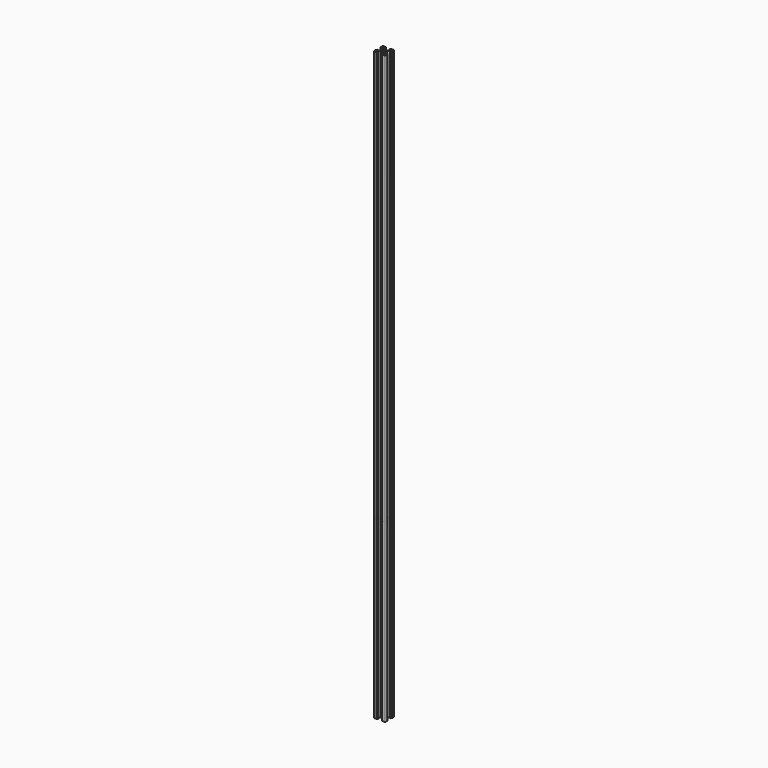
from build123d import *

# Parameters (mm, degrees)
F0_R     = 2.1
F1_DEPTH = 1000
F2_DEPTH = 300


with BuildPart() as f1:
    # F0 (on Top) → F1 (new body)
    with BuildSketch(Plane.XY):
        with BuildLine():
            Line((-3.4, 0), (-3.5, -0.1))
            Line((-3.5, -0.1), (-3.5, -2.43934))
            Line((-3.5, -2.43934), (-6.56066, -5.5))
            Line((-6.56066, -5.5), (-8.2, -5.5))
            Line((-8.2, -5.5), (-8.2, -2.89))
            Line((-8.2, -2.89), (-8.31, -2.89))
            Line((-8.31, -2.89), (-9.768614, -4.348614))
            ThreePointArc((-9.768614, -4.348614), (-9.939865, -4.604909), (-10, -4.907229))
            Line((-10, -4.907229), (-10, -8.5))
            ThreePointArc((-10, -8.5), (-9.56066, -9.56066), (-8.5, -10))
            Line((-8.5, -10), (-4.907229, -10))
            ThreePointArc((-4.907229, -10), (-4.604909, -9.939865), (-4.348614, -9.768614))
            Line((-4.348614, -9.768614), (-2.89, -8.31))
            Line((-2.89, -8.31), (-2.89, -8.2))
            Line((-2.89, -8.2), (-5.5, -8.2))
            Line((-5.5, -8.2), (-5.5, -6.56066))
            Line((-5.5, -6.56066), (-2.43934, -3.5))
            Line((-2.43934, -3.5), (-0.1, -3.5))
            Line((-0.1, -3.5), (0, -3.4))
            Line((0, -3.4), (0.1, -3.5))
            Line((0.1, -3.5), (2.43934, -3.5))
            Line((2.43934, -3.5), (5.5, -6.56066))
            Line((5.5, -6.56066), (5.5, -8.2))
            Line((5.5, -8.2), (2.89, -8.2))
            Line((2.89, -8.2), (2.89, -8.31))
            Line((2.89, -8.31), (4.348614, -9.768614))
            ThreePointArc((4.348614, -9.768614), (4.604909, -9.939865), (4.907229, -10))
            Line((4.907229, -10), (8.5, -10))
            ThreePointArc((8.5, -10), (9.56066, -9.56066), (10, -8.5))
            Line((10, -8.5), (10, -4.907229))
            ThreePointArc((10, -4.907229), (9.939865, -4.604909), (9.768614, -4.348614))
            Line((9.768614, -4.348614), (8.31, -2.89))
            Line((8.31, -2.89), (8.2, -2.89))
            Line((8.2, -2.89), (8.2, -5.5))
            Line((8.2, -5.5), (6.56066, -5.5))
            Line((6.56066, -5.5), (3.5, -2.43934))
            Line((3.5, -2.43934), (3.5, -0.1))
            Line((3.5, -0.1), (3.4, 0))
            Line((3.4, 0), (3.5, 0.1))
            Line((3.5, 0.1), (3.5, 2.43934))
            Line((3.5, 2.43934), (6.56066, 5.5))
            Line((6.56066, 5.5), (8.2, 5.5))
            Line((8.2, 5.5), (8.2, 2.89))
            Line((8.2, 2.89), (8.31, 2.89))
            Line((8.31, 2.89), (9.768614, 4.348614))
            ThreePointArc((9.768614, 4.348614), (9.939865, 4.604909), (10, 4.907229))
            Line((10, 4.907229), (10, 8.5))
            ThreePointArc((10, 8.5), (9.56066, 9.56066), (8.5, 10))
            Line((8.5, 10), (4.907229, 10))
            ThreePointArc((4.907229, 10), (4.604909, 9.939865), (4.348614, 9.768614))
            Line((4.348614, 9.768614), (2.89, 8.31))
            Line((2.89, 8.31), (2.89, 8.2))
            Line((2.89, 8.2), (5.5, 8.2))
            Line((5.5, 8.2), (5.5, 6.56066))
            Line((5.5, 6.56066), (2.43934, 3.5))
            Line((2.43934, 3.5), (0.1, 3.5))
            Line((0.1, 3.5), (0, 3.4))
            Line((0, 3.4), (-0.1, 3.5))
            Line((-0.1, 3.5), (-2.43934, 3.5))
            Line((-2.43934, 3.5), (-5.5, 6.56066))
            Line((-5.5, 6.56066), (-5.5, 8.2))
            Line((-5.5, 8.2), (-2.89, 8.2))
            Line((-2.89, 8.2), (-2.89, 8.31))
            Line((-2.89, 8.31), (-4.348614, 9.768614))
            ThreePointArc((-4.348614, 9.768614), (-4.604909, 9.939865), (-4.907229, 10))
            Line((-4.907229, 10), (-8.5, 10))
            ThreePointArc((-8.5, 10), (-9.56066, 9.56066), (-10, 8.5))
            Line((-10, 8.5), (-10, 4.907229))
            ThreePointArc((-10, 4.907229), (-9.939865, 4.604909), (-9.768614, 4.348614))
            Line((-9.768614, 4.348614), (-8.31, 2.89))
            Line((-8.31, 2.89), (-8.2, 2.89))
            Line((-8.2, 2.89), (-8.2, 5.5))
            Line((-8.2, 5.5), (-6.56066, 5.5))
            Line((-6.56066, 5.5), (-3.5, 2.43934))
            Line((-3.5, 2.43934), (-3.5, 0.1))
            Line((-3.5, 0.1), (-3.4, 0))
        make_face()
        Polygon((-7.66, -6.57), (-7.115, -7.115), (-6.57, -7.66), (-6.57, -8.2), (-8.2, -8.2), (-8.2, -6.57), align=None, mode=Mode.SUBTRACT)
        Polygon((6.57, -7.66), (7.115, -7.115), (7.66, -6.57), (8.2, -6.57), (8.2, -8.2), (6.57, -8.2), align=None, mode=Mode.SUBTRACT)
        Polygon((-6.57, 8.2), (-6.57, 7.66), (-7.115, 7.115), (-7.66, 6.57), (-8.2, 6.57), (-8.2, 8.2), align=None, mode=Mode.SUBTRACT)
        Circle(F0_R, mode=Mode.SUBTRACT)
        Polygon((8.2, 6.57), (7.66, 6.57), (7.115, 7.115), (6.57, 7.66), (6.57, 8.2), (8.2, 8.2), align=None, mode=Mode.SUBTRACT)
    extrude(amount=F1_DEPTH)


with BuildPart() as f2:
    # F0 (on Top) → F2 (new body)
    with BuildSketch(Plane.XY):
        with BuildLine():
            Line((-3.4, 0), (-3.5, -0.1))
            Line((-3.5, -0.1), (-3.5, -2.43934))
            Line((-3.5, -2.43934), (-6.56066, -5.5))
            Line((-6.56066, -5.5), (-8.2, -5.5))
            Line((-8.2, -5.5), (-8.2, -2.89))
            Line((-8.2, -2.89), (-8.31, -2.89))
            Line((-8.31, -2.89), (-9.768614, -4.348614))
            ThreePointArc((-9.768614, -4.348614), (-9.939865, -4.604909), (-10, -4.907229))
            Line((-10, -4.907229), (-10, -8.5))
            ThreePointArc((-10, -8.5), (-9.56066, -9.56066), (-8.5, -10))
            Line((-8.5, -10), (-4.907229, -10))
            ThreePointArc((-4.907229, -10), (-4.604909, -9.939865), (-4.348614, -9.768614))
            Line((-4.348614, -9.768614), (-2.89, -8.31))
            Line((-2.89, -8.31), (-2.89, -8.2))
            Line((-2.89, -8.2), (-5.5, -8.2))
            Line((-5.5, -8.2), (-5.5, -6.56066))
            Line((-5.5, -6.56066), (-2.43934, -3.5))
            Line((-2.43934, -3.5), (-0.1, -3.5))
            Line((-0.1, -3.5), (0, -3.4))
            Line((0, -3.4), (0.1, -3.5))
            Line((0.1, -3.5), (2.43934, -3.5))
            Line((2.43934, -3.5), (5.5, -6.56066))
            Line((5.5, -6.56066), (5.5, -8.2))
            Line((5.5, -8.2), (2.89, -8.2))
            Line((2.89, -8.2), (2.89, -8.31))
            Line((2.89, -8.31), (4.348614, -9.768614))
            ThreePointArc((4.348614, -9.768614), (4.604909, -9.939865), (4.907229, -10))
            Line((4.907229, -10), (8.5, -10))
            ThreePointArc((8.5, -10), (9.56066, -9.56066), (10, -8.5))
            Line((10, -8.5), (10, -4.907229))
            ThreePointArc((10, -4.907229), (9.939865, -4.604909), (9.768614, -4.348614))
            Line((9.768614, -4.348614), (8.31, -2.89))
            Line((8.31, -2.89), (8.2, -2.89))
            Line((8.2, -2.89), (8.2, -5.5))
            Line((8.2, -5.5), (6.56066, -5.5))
            Line((6.56066, -5.5), (3.5, -2.43934))
            Line((3.5, -2.43934), (3.5, -0.1))
            Line((3.5, -0.1), (3.4, 0))
            Line((3.4, 0), (3.5, 0.1))
            Line((3.5, 0.1), (3.5, 2.43934))
            Line((3.5, 2.43934), (6.56066, 5.5))
            Line((6.56066, 5.5), (8.2, 5.5))
            Line((8.2, 5.5), (8.2, 2.89))
            Line((8.2, 2.89), (8.31, 2.89))
            Line((8.31, 2.89), (9.768614, 4.348614))
            ThreePointArc((9.768614, 4.348614), (9.939865, 4.604909), (10, 4.907229))
            Line((10, 4.907229), (10, 8.5))
            ThreePointArc((10, 8.5), (9.56066, 9.56066), (8.5, 10))
            Line((8.5, 10), (4.907229, 10))
            ThreePointArc((4.907229, 10), (4.604909, 9.939865), (4.348614, 9.768614))
            Line((4.348614, 9.768614), (2.89, 8.31))
            Line((2.89, 8.31), (2.89, 8.2))
            Line((2.89, 8.2), (5.5, 8.2))
            Line((5.5, 8.2), (5.5, 6.56066))
            Line((5.5, 6.56066), (2.43934, 3.5))
            Line((2.43934, 3.5), (0.1, 3.5))
            Line((0.1, 3.5), (0, 3.4))
            Line((0, 3.4), (-0.1, 3.5))
            Line((-0.1, 3.5), (-2.43934, 3.5))
            Line((-2.43934, 3.5), (-5.5, 6.56066))
            Line((-5.5, 6.56066), (-5.5, 8.2))
            Line((-5.5, 8.2), (-2.89, 8.2))
            Line((-2.89, 8.2), (-2.89, 8.31))
            Line((-2.89, 8.31), (-4.348614, 9.768614))
            ThreePointArc((-4.348614, 9.768614), (-4.604909, 9.939865), (-4.907229, 10))
            Line((-4.907229, 10), (-8.5, 10))
            ThreePointArc((-8.5, 10), (-9.56066, 9.56066), (-10, 8.5))
            Line((-10, 8.5), (-10, 4.907229))
            ThreePointArc((-10, 4.907229), (-9.939865, 4.604909), (-9.768614, 4.348614))
            Line((-9.768614, 4.348614), (-8.31, 2.89))
            Line((-8.31, 2.89), (-8.2, 2.89))
            Line((-8.2, 2.89), (-8.2, 5.5))
            Line((-8.2, 5.5), (-6.56066, 5.5))
            Line((-6.56066, 5.5), (-3.5, 2.43934))
            Line((-3.5, 2.43934), (-3.5, 0.1))
            Line((-3.5, 0.1), (-3.4, 0))
        make_face()
        Polygon((-7.66, -6.57), (-7.115, -7.115), (-6.57, -7.66), (-6.57, -8.2), (-8.2, -8.2), (-8.2, -6.57), align=None, mode=Mode.SUBTRACT)
        Polygon((6.57, -7.66), (7.115, -7.115), (7.66, -6.57), (8.2, -6.57), (8.2, -8.2), (6.57, -8.2), align=None, mode=Mode.SUBTRACT)
        Polygon((-6.57, 8.2), (-6.57, 7.66), (-7.115, 7.115), (-7.66, 6.57), (-8.2, 6.57), (-8.2, 8.2), align=None, mode=Mode.SUBTRACT)
        Circle(F0_R, mode=Mode.SUBTRACT)
        Polygon((8.2, 6.57), (7.66, 6.57), (7.115, 7.115), (6.57, 7.66), (6.57, 8.2), (8.2, 8.2), align=None, mode=Mode.SUBTRACT)
    extrude(amount=F2_DEPTH)


solid = Compound([f1.part, f2.part])
